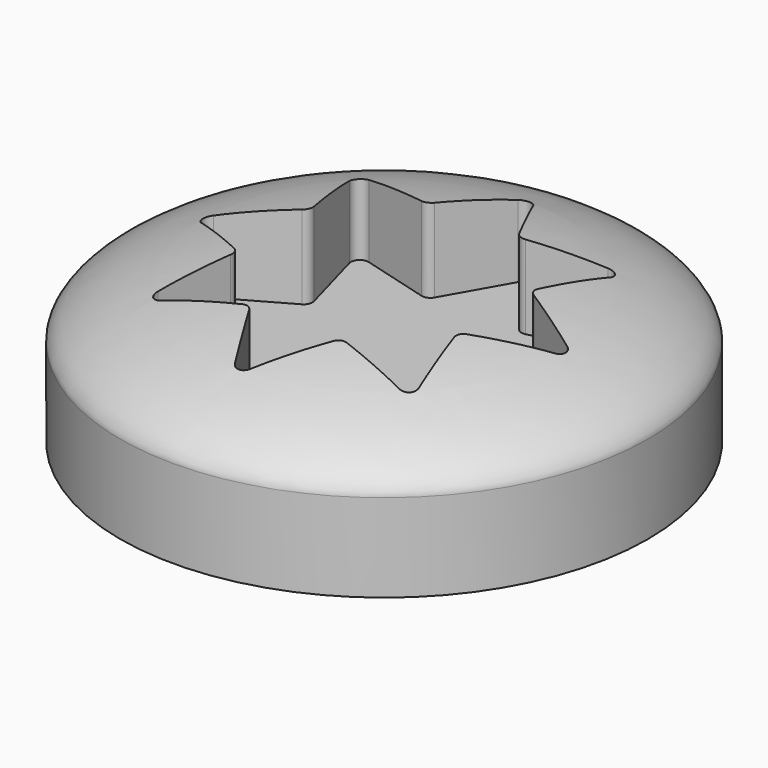
from build123d import *

# Parameters (mm, degrees)
F0_R          = 76.2
F1_DEPTH      = 25.4
F4_DEPTH      = 20.21225
F4_DEPTH_BACK = 6.35


with BuildPart() as f1:
    # F0 (on Top) → F1 (new body)
    with BuildSketch(Plane.XY):
        Circle(F0_R)
        with BuildLine():
            ThreePointArc((-15.062988, 32.279811), (-13.412606, 32.380894), (-12.174132, 33.476414))
            Line((-12.174132, 33.476414), (-2.210489, 51.080058))
            ThreePointArc((-2.210489, 51.080058), (0, 52.368924), (2.210489, 51.080058))
            Line((2.210489, 51.080058), (12.174132, 33.476414))
            ThreePointArc((12.174132, 33.476414), (13.412606, 32.380894), (15.062988, 32.279811))
            Line((15.062988, 32.279811), (34.556004, 37.682107))
            ThreePointArc((34.556004, 37.682107), (37.030421, 37.030421), (37.682107, 34.556004))
            Line((37.682107, 34.556004), (32.279811, 15.062988))
            ThreePointArc((32.279811, 15.062988), (32.380894, 13.412606), (33.476414, 12.174132))
            Line((33.476414, 12.174132), (51.080058, 2.210489))
            ThreePointArc((51.080058, 2.210489), (52.368924, 0), (51.080058, -2.210489))
            Line((51.080058, -2.210489), (33.476414, -12.174132))
            ThreePointArc((33.476414, -12.174132), (32.380894, -13.412606), (32.279811, -15.062988))
            Line((32.279811, -15.062988), (37.682107, -34.556004))
            ThreePointArc((37.682107, -34.556004), (37.030421, -37.030421), (34.556004, -37.682107))
            Line((34.556004, -37.682107), (15.062988, -32.279811))
            ThreePointArc((15.062988, -32.279811), (13.412606, -32.380894), (12.174132, -33.476414))
            Line((12.174132, -33.476414), (2.210489, -51.080058))
            ThreePointArc((2.210489, -51.080058), (0, -52.368924), (-2.210489, -51.080058))
            Line((-2.210489, -51.080058), (-12.174132, -33.476414))
            ThreePointArc((-12.174132, -33.476414), (-13.412606, -32.380894), (-15.062988, -32.279811))
            Line((-15.062988, -32.279811), (-34.556004, -37.682107))
            ThreePointArc((-34.556004, -37.682107), (-37.030421, -37.030421), (-37.682107, -34.556004))
            Line((-37.682107, -34.556004), (-32.279811, -15.062988))
            ThreePointArc((-32.279811, -15.062988), (-32.380894, -13.412606), (-33.476414, -12.174132))
            Line((-33.476414, -12.174132), (-51.080058, -2.210489))
            ThreePointArc((-51.080058, -2.210489), (-52.368924, 0), (-51.080058, 2.210489))
            Line((-51.080058, 2.210489), (-33.476414, 12.174132))
            ThreePointArc((-33.476414, 12.174132), (-32.380894, 13.412606), (-32.279811, 15.062988))
            Line((-32.279811, 15.062988), (-37.682107, 34.556004))
            ThreePointArc((-37.682107, 34.556004), (-37.030421, 37.030421), (-34.556004, 37.682107))
            Line((-34.556004, 37.682107), (-15.062988, 32.279811))
        make_face(mode=Mode.SUBTRACT)
        with BuildLine():
            Line((-2.210489, 51.080058), (-12.174132, 33.476414))
            ThreePointArc((-12.174132, 33.476414), (-13.412606, 32.380894), (-15.062988, 32.279811))
            Line((-15.062988, 32.279811), (-34.556004, 37.682107))
            ThreePointArc((-34.556004, 37.682107), (-37.030421, 37.030421), (-37.682107, 34.556004))
            Line((-37.682107, 34.556004), (-32.279811, 15.062988))
            ThreePointArc((-32.279811, 15.062988), (-32.380894, 13.412606), (-33.476414, 12.174132))
            Line((-33.476414, 12.174132), (-51.080058, 2.210489))
            ThreePointArc((-51.080058, 2.210489), (-52.368924, 0), (-51.080058, -2.210489))
            Line((-51.080058, -2.210489), (-33.476414, -12.174132))
            ThreePointArc((-33.476414, -12.174132), (-32.380894, -13.412606), (-32.279811, -15.062988))
            Line((-32.279811, -15.062988), (-37.682107, -34.556004))
            ThreePointArc((-37.682107, -34.556004), (-37.030421, -37.030421), (-34.556004, -37.682107))
            Line((-34.556004, -37.682107), (-15.062988, -32.279811))
            ThreePointArc((-15.062988, -32.279811), (-13.412606, -32.380894), (-12.174132, -33.476414))
            Line((-12.174132, -33.476414), (-2.210489, -51.080058))
            ThreePointArc((-2.210489, -51.080058), (0, -52.368924), (2.210489, -51.080058))
            Line((2.210489, -51.080058), (12.174132, -33.476414))
            ThreePointArc((12.174132, -33.476414), (13.412606, -32.380894), (15.062988, -32.279811))
            Line((15.062988, -32.279811), (34.556004, -37.682107))
            ThreePointArc((34.556004, -37.682107), (37.030421, -37.030421), (37.682107, -34.556004))
            Line((37.682107, -34.556004), (32.279811, -15.062988))
            ThreePointArc((32.279811, -15.062988), (32.380894, -13.412606), (33.476414, -12.174132))
            Line((33.476414, -12.174132), (51.080058, -2.210489))
            ThreePointArc((51.080058, -2.210489), (52.368924, 0), (51.080058, 2.210489))
            Line((51.080058, 2.210489), (33.476414, 12.174132))
            ThreePointArc((33.476414, 12.174132), (32.380894, 13.412606), (32.279811, 15.062988))
            Line((32.279811, 15.062988), (37.682107, 34.556004))
            ThreePointArc((37.682107, 34.556004), (37.030421, 37.030421), (34.556004, 37.682107))
            Line((34.556004, 37.682107), (15.062988, 32.279811))
            ThreePointArc((15.062988, 32.279811), (13.412606, 32.380894), (12.174132, 33.476414))
            Line((12.174132, 33.476414), (2.210489, 51.080058))
            ThreePointArc((2.210489, 51.080058), (0, 52.368924), (-2.210489, 51.080058))
        make_face()
    extrude(amount=-F1_DEPTH)

    # F2 (on Right) → F3 (revolve)
    with BuildSketch(Plane.YZ):
        with BuildLine():
            add(Edge.make_bspline(
                [(0, 20.21125), (-53.338584, 20.21125), (-76.2, 6.136773), (-76.2, 0)],
                knots=[0, 0, 0, 0, 78.834857, 78.834857, 78.834857, 78.834857], degree=3))
            Line((-76.2, 0), (0, 0))
            Line((0, 0), (0, 20.21125))
        make_face()
    revolve(axis=Axis((0, 0, 10.105625), (0, 0, -1)))

    # F0 (on Top) → F4 (cut, two sides)
    with BuildSketch(Plane.XY) as f4_sk:
        with BuildLine():
            Line((-2.210489, 51.080058), (-12.174132, 33.476414))
            ThreePointArc((-12.174132, 33.476414), (-13.412606, 32.380894), (-15.062988, 32.279811))
            Line((-15.062988, 32.279811), (-34.556004, 37.682107))
            ThreePointArc((-34.556004, 37.682107), (-37.030421, 37.030421), (-37.682107, 34.556004))
            Line((-37.682107, 34.556004), (-32.279811, 15.062988))
            ThreePointArc((-32.279811, 15.062988), (-32.380894, 13.412606), (-33.476414, 12.174132))
            Line((-33.476414, 12.174132), (-51.080058, 2.210489))
            ThreePointArc((-51.080058, 2.210489), (-52.368924, 0), (-51.080058, -2.210489))
            Line((-51.080058, -2.210489), (-33.476414, -12.174132))
            ThreePointArc((-33.476414, -12.174132), (-32.380894, -13.412606), (-32.279811, -15.062988))
            Line((-32.279811, -15.062988), (-37.682107, -34.556004))
            ThreePointArc((-37.682107, -34.556004), (-37.030421, -37.030421), (-34.556004, -37.682107))
            Line((-34.556004, -37.682107), (-15.062988, -32.279811))
            ThreePointArc((-15.062988, -32.279811), (-13.412606, -32.380894), (-12.174132, -33.476414))
            Line((-12.174132, -33.476414), (-2.210489, -51.080058))
            ThreePointArc((-2.210489, -51.080058), (0, -52.368924), (2.210489, -51.080058))
            Line((2.210489, -51.080058), (12.174132, -33.476414))
            ThreePointArc((12.174132, -33.476414), (13.412606, -32.380894), (15.062988, -32.279811))
            Line((15.062988, -32.279811), (34.556004, -37.682107))
            ThreePointArc((34.556004, -37.682107), (37.030421, -37.030421), (37.682107, -34.556004))
            Line((37.682107, -34.556004), (32.279811, -15.062988))
            ThreePointArc((32.279811, -15.062988), (32.380894, -13.412606), (33.476414, -12.174132))
            Line((33.476414, -12.174132), (51.080058, -2.210489))
            ThreePointArc((51.080058, -2.210489), (52.368924, 0), (51.080058, 2.210489))
            Line((51.080058, 2.210489), (33.476414, 12.174132))
            ThreePointArc((33.476414, 12.174132), (32.380894, 13.412606), (32.279811, 15.062988))
            Line((32.279811, 15.062988), (37.682107, 34.556004))
            ThreePointArc((37.682107, 34.556004), (37.030421, 37.030421), (34.556004, 37.682107))
            Line((34.556004, 37.682107), (15.062988, 32.279811))
            ThreePointArc((15.062988, 32.279811), (13.412606, 32.380894), (12.174132, 33.476414))
            Line((12.174132, 33.476414), (2.210489, 51.080058))
            ThreePointArc((2.210489, 51.080058), (0, 52.368924), (-2.210489, 51.080058))
        make_face()
    extrude(amount=F4_DEPTH, mode=Mode.SUBTRACT)
    extrude(f4_sk.sketch, amount=-F4_DEPTH_BACK, mode=Mode.SUBTRACT)


solid = f1.part
